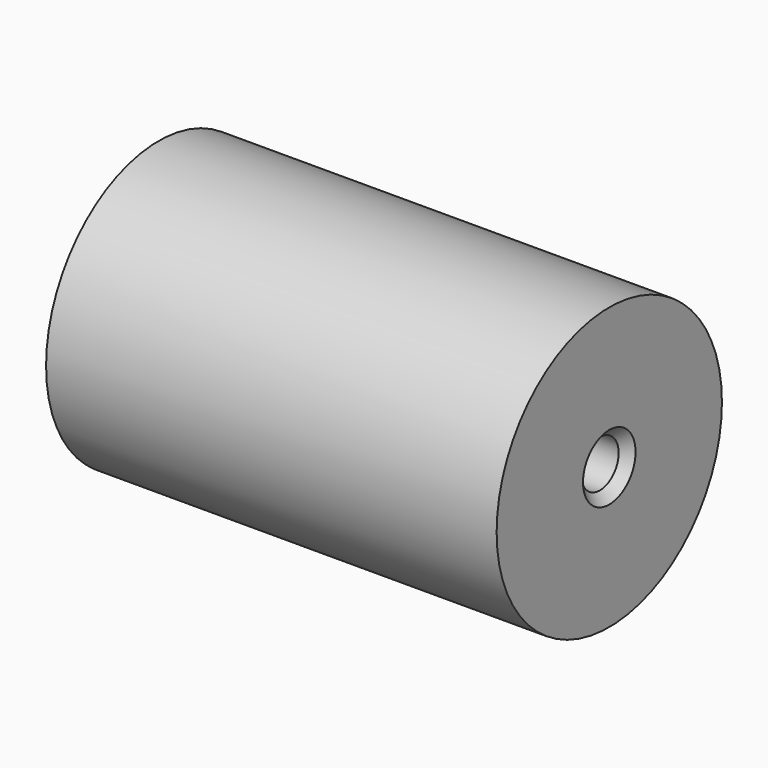
from build123d import *

# Parameters (mm, degrees)
F0_R     = 19.05
F0_R_2   = 3.175
F1_DEPTH = 30.48
F3_SIZE  = 1.27


with BuildPart() as f1:
    # F0 (on Right) → F1 (new body)
    with BuildSketch(Plane.YZ):
        Circle(F0_R)
        Circle(F0_R_2, mode=Mode.SUBTRACT)
    extrude(amount=F1_DEPTH)

    # F2: F1 across face


with BuildPart() as f1_1:
    add(f1.part)
    add(f1.part.mirror(Plane(origin=(0, 0, 0), x_dir=(0, 1, 0), z_dir=(-1, 0, 0))))

    # F3
    f3_edges = [f1_1.edges().sort_by_distance(p)[0] for p in [
        (30.48, -3.175, 0),
        (-30.48, -3.175, 0),
    ]]
    chamfer(f3_edges, length=F3_SIZE)


solid = f1_1.part
